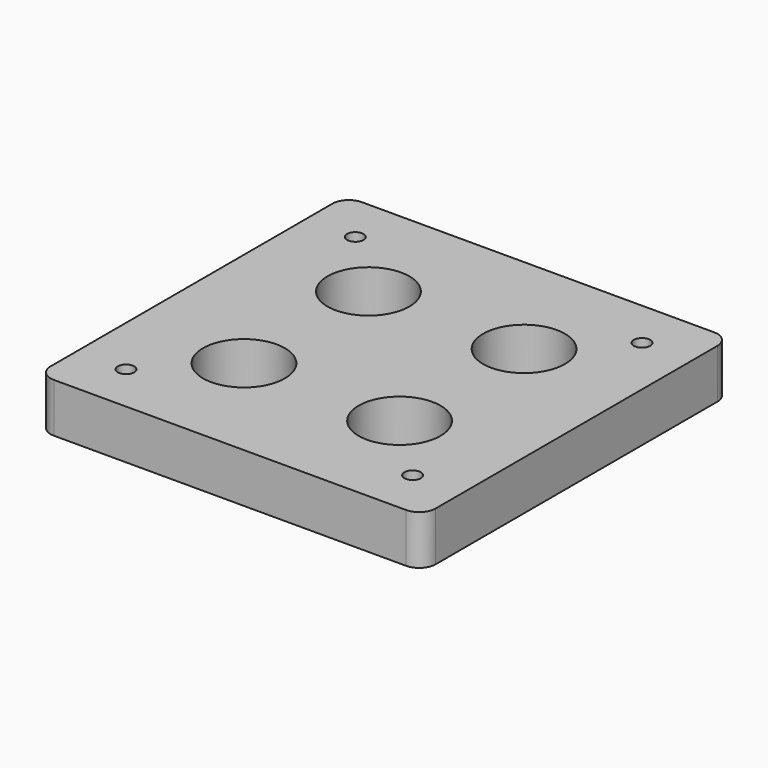
from build123d import *

# Parameters (mm, degrees)
F0_W     = 149.225
F0_H     = 149.225
F0_R     = 3.175
F0_R_2   = 15.875
F1_DEPTH = 19.05
F2_R     = 6.35


with BuildPart() as f1:
    # F0 (on Top) → F1 (new body)
    with BuildSketch(Plane.XY):
        Rectangle(F0_W, F0_H)
        with Locations((-55.5625, -55.5625)):
            Circle(F0_R, mode=Mode.SUBTRACT)
        with Locations((-30.1625, -30.1625)):
            Circle(F0_R_2, mode=Mode.SUBTRACT)
        with Locations((55.5625, -55.5625)):
            Circle(F0_R, mode=Mode.SUBTRACT)
        with Locations((30.1625, -30.1625)):
            Circle(F0_R_2, mode=Mode.SUBTRACT)
        with Locations((-30.1625, 30.1625)):
            Circle(F0_R_2, mode=Mode.SUBTRACT)
        with Locations((-55.5625, 55.5625)):
            Circle(F0_R, mode=Mode.SUBTRACT)
        with Locations((30.1625, 30.1625)):
            Circle(F0_R_2, mode=Mode.SUBTRACT)
        with Locations((55.5625, 55.5625)):
            Circle(F0_R, mode=Mode.SUBTRACT)
    extrude(amount=F1_DEPTH)

    # F2
    f2_edges = [f1.edges().sort_by_distance(p)[0] for p in [
        (-74.6125, 74.6125, 9.525),
        (74.6125, 74.6125, 9.525),
        (74.6125, -74.6125, 9.525),
        (-74.6125, -74.6125, 9.525),
    ]]
    fillet(f2_edges, radius=F2_R)


solid = f1.part
